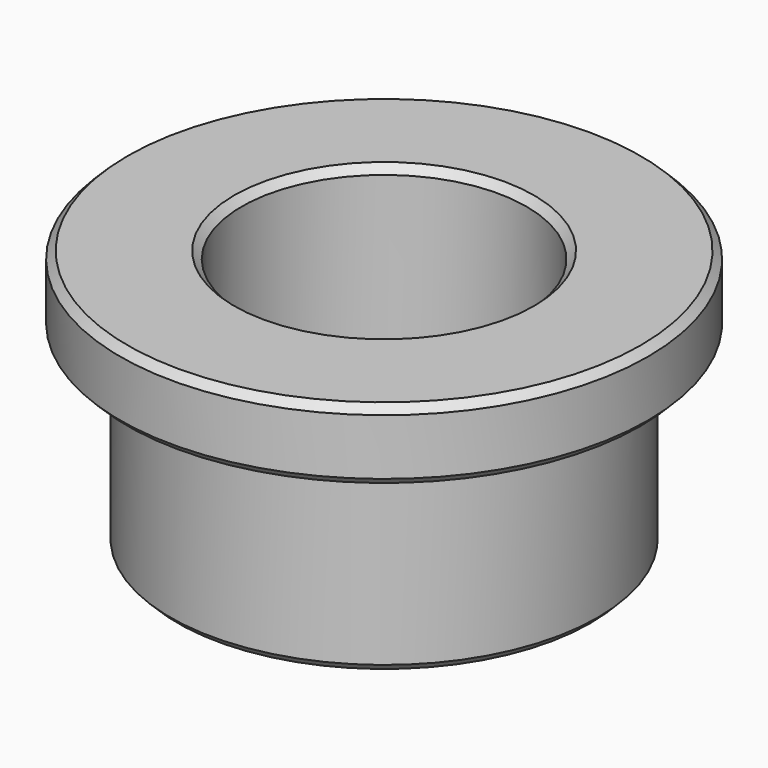
from build123d import *

# Parameters (mm, degrees)
F0_R     = 14.2875
F0_R_2   = 9.525
F1_DEPTH = 12.7
F2_R     = 17.65
F2_R_2   = 9.525
F3_DEPTH = 4.75
F4_SIZE  = 0.5


with BuildPart() as f1:
    # F0 (on Top) → F1 (new body)
    with BuildSketch(Plane.XY):
        Circle(F0_R)
        Circle(F0_R_2, mode=Mode.SUBTRACT)
    extrude(amount=-F1_DEPTH)

    # F2 (on Top) → F3 (join)
    with BuildSketch(Plane.XY):
        Circle(F2_R)
        Circle(F2_R_2, mode=Mode.SUBTRACT)
    extrude(amount=F3_DEPTH)

    # F4
    f4_edges = [f1.edges().sort_by_distance(p)[0] for p in [
        (17.65, 0, 2.375),
        (-17.65, 0, 0),
        (-17.65, 0, 4.75),
        (9.525, 0, -6.35),
        (-9.525, 0, 0),
        (-9.525, 0, -12.7),
        (14.2875, 0, -6.35),
        (-14.2875, 0, 0),
        (-14.2875, 0, -12.7),
    ]]
    chamfer(f4_edges, length=F4_SIZE)


solid = f1.part
